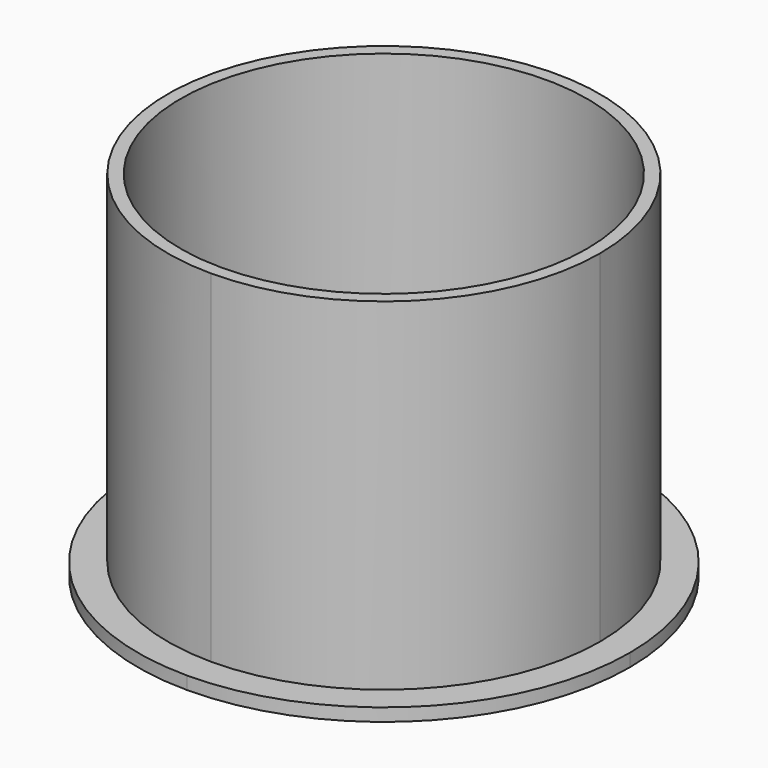
from build123d import *

# Parameters (mm, degrees)
REVOLUTION_ANGLE            = 90
REVOLUTION_MIRRORED_2_ANGLE = -90


with BuildPart() as part:
    # Sketch → Revolution (revolve)
    with BuildSketch(Plane.XZ):
        Polygon((47.55, 0), (50.55, 0), (57.55, 0), (57.55, 3), (50.55, 3), (50.55, 83), (47.55, 83), align=None)
    revolution = revolve(axis=Axis((0, 0, 0), (0, 0, 1)), revolution_arc=REVOLUTION_ANGLE)

    # Sketch Mirrored 2 → Revolution Mirrored 2 (revolve)
    with BuildSketch(Plane(origin=(0, 0, 0), x_dir=(-1, 0, 0), z_dir=(0, 1, 0))):
        Polygon((47.55, 0), (50.55, 0), (57.55, 0), (57.55, 3), (50.55, 3), (50.55, 83), (47.55, 83), align=None)
    revolution_mirrored_2 = revolve(axis=Axis((0, 0, 0), (0, 0, 1)), revolution_arc=REVOLUTION_MIRRORED_2_ANGLE)

    # Mirrored001: Revolution, Revolution Mirrored 2 across Sketch001 H_Axis
    add(revolution.mirror(Plane.ZX))
    add(revolution_mirrored_2.mirror(Plane.ZX))


solid = part.part
